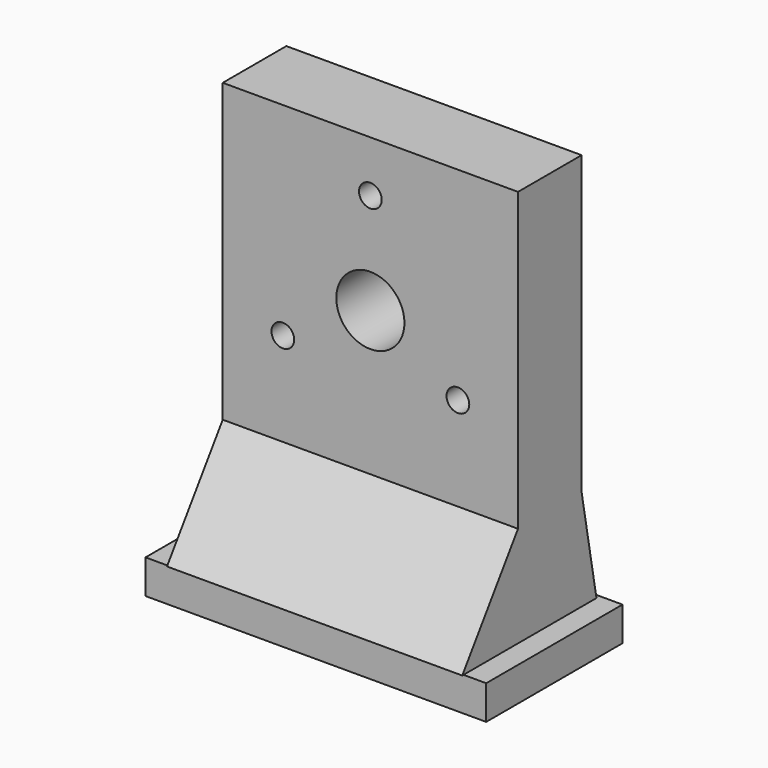
from build123d import *

# Parameters (mm, degrees)
F0_W     = 26
F0_H     = 35
F0_R     = 1
F0_R_2   = 3
F1_DEPTH = 7
F2_W     = 30
F2_H     = 15
F3_DEPTH = 3
F5_DEPTH = 26


with BuildPart() as f1:
    # F0 (on Front) → F1 (new body)
    with BuildSketch(Plane.XZ):
        with Locations((0, 17.5)):
            Rectangle(F0_W, F0_H)
        with Locations((-7.707626, 17.128522)):
            Circle(F0_R, mode=Mode.SUBTRACT)
        with Locations((7.707626, 17.128522)):
            Circle(F0_R, mode=Mode.SUBTRACT)
        with Locations((0, 21.578522)):
            Circle(F0_R_2, mode=Mode.SUBTRACT)
        with Locations((0, 30.478522)):
            Circle(F0_R, mode=Mode.SUBTRACT)
    extrude(amount=F1_DEPTH)

    # F2 (on Top) → F3 (join)
    with BuildSketch(Plane.XY):
        with Locations((0, -5.5)):
            Rectangle(F2_W, F2_H)
    extrude(amount=-F3_DEPTH)

    # F4 (on face) → F5 (join)
    with BuildSketch(Plane(origin=(-13, 0, 0), x_dir=(0, -1, 0), z_dir=(-1, 0, 0))):
        Polygon((13.13559, 0), (7, 8.883364), (7, 6.872926), (11.747014, 0), align=None)
        Polygon((11.747014, 0), (7, 6.872926), (7, 4.174094), (9.882976, 0), align=None)
        Polygon((9.882976, 0), (7, 4.174094), (7, 1.96276), (8.355645, 0), align=None)
        Polygon((8.355645, 0), (7, 1.96276), (7, 0), align=None)
        Polygon((0, 4.22952), (0, 8.883364), (-1.634174, 0), (-0.778058, 0), align=None)
        Polygon((0, 0), (0, 4.22952), (-0.778058, 0), align=None)
    extrude(amount=-F5_DEPTH)


solid = f1.part
